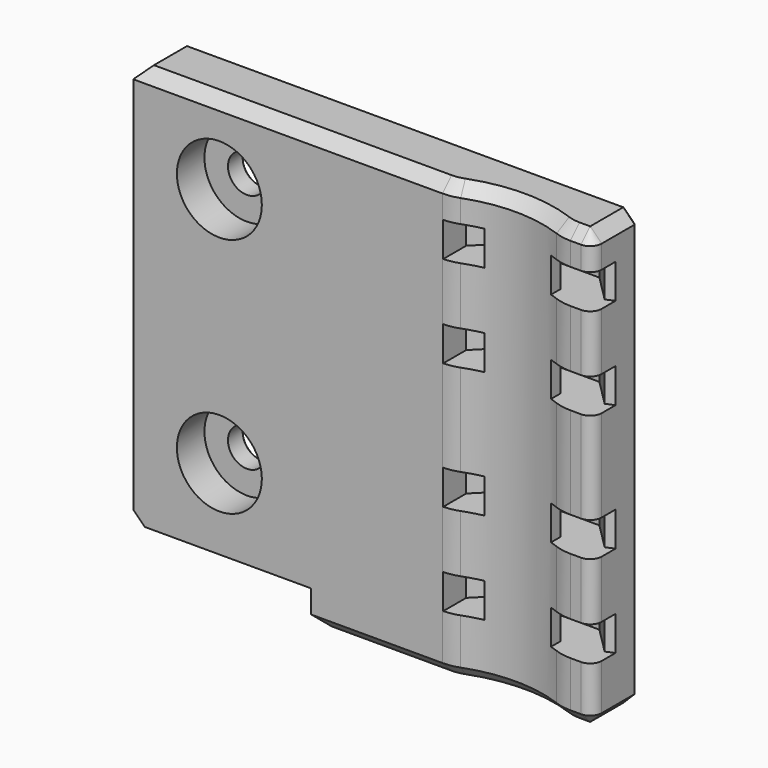
from build123d import *

# Parameters (mm, degrees)
BOX_W              = 40
BOX_H              = 4
BOX_DEPTH          = 38
PAD002_DEPTH       = 3
PAD_DEPTH          = 38
SKETCH001_W        = 15.5
SKETCH001_H        = 3
POCKET_DEPTH       = 7.001
SKETCH002_R        = 12
POCKET001_DEPTH    = 38.001
FILLET_R           = 4
FILLET001_R        = 1
SKETCH003_R        = 1.65
POCKET002_DEPTH    = 7.001
SKETCH004_R        = 3.7
POCKET003_DEPTH    = 3
CHAMFER_SIZE       = 1
CHAMFER001_SIZE    = 1
SKETCH005_W        = 3
SKETCH005_H        = 5
SKETCH005_H_2      = 17
PAD001_DEPTH       = 1
CHAMFER002_SIZE    = 0.99
CHAMFER003_SIZE    = 1
CHAMFER003002_SIZE = 0.4


with BuildPart() as cube:
    # Box → Box (new body)
    with BuildSketch(Plane(origin=(0, 5, 0), x_dir=(1, 0, 0), z_dir=(0, 0, 1))):
        with Locations((20, 2)):
            Rectangle(BOX_W, BOX_H)
    extrude(amount=BOX_DEPTH)


with BuildPart() as body001:
    # Sketch006 → Pad002 (new body)
    with BuildSketch(Plane.XY):
        Polygon((27, -3), (27, 4), (29, 6), (37, 6), (40, 3), (40, -3), (36, -3), (36, 3), (35, 4), (31, 4), (30, 3), (30, -3), align=None)
    extrude(amount=PAD002_DEPTH)


with BuildPart() as body001_1:
    # Body001 placement: moved
    add(body001.part.moved(Location((0, 0, 32))))


with BuildPart() as body002:
    # Body002 base: copy of Body001
    add(body001_1.part)


with BuildPart() as body002_1:
    # Body002 placement: moved
    add(body002.part.moved(Location((0, 0, -8))))


with BuildPart() as body003:
    # Body003 base: copy of Body002
    add(body002_1.part)


with BuildPart() as body003_1:
    # Body003 placement: moved
    add(body003.part.moved(Location((0, 0, -19))))


with BuildPart() as fusion:
    # Body004 base: copy of Body003
    add(body003_1.part)


with BuildPart() as fusion_1:
    # Body004 placement: moved
    add(fusion.part.moved(Location((0, 0, 8))))

    # Fusion: union Body001, Body002, Body003
    add(body001_1.part)
    add(body002_1.part)
    add(body003_1.part)


with BuildPart() as fusion_2:
    # Fusion placement: moved
    add(fusion_1.part.moved(Location((0, -1.5, 0))))


with BuildPart() as chamfer003002:
    # Sketch → Pad (new body)
    with BuildSketch(Plane.XY):
        Polygon((0, 0), (0, 5), (15.5, 5), (15.5, 7), (25, 7), (40, 7), (40, 0), (25, 0), align=None)
    extrude(amount=PAD_DEPTH)

    # Sketch001 (on Face8 of Pad) → Pocket (cut, through all)
    with BuildSketch(Plane.XZ):
        with Locations((7.75, 1.5)):
            Rectangle(SKETCH001_W, SKETCH001_H)
    extrude(amount=-POCKET_DEPTH, mode=Mode.SUBTRACT)

    # Sketch002 (on Face4 of Pocket) → Pocket001 (cut, through all)
    with BuildSketch(Plane.XY.offset(38)):
        with Locations((32.5, -11)):
            Circle(SKETCH002_R)
    extrude(amount=-POCKET001_DEPTH, mode=Mode.SUBTRACT)

    # Fillet
    fillet_edges = [chamfer003002.edges().sort_by_distance(p)[0] for p in [
        (27.704168, 0, 19),
        (37.295832, 0, 19),
    ]]
    fillet(fillet_edges, radius=FILLET_R)

    # Fillet001
    fillet001_edges = [chamfer003002.edges().sort_by_distance(p)[0] for p in [
        (40, 0, 19),
        (40, 7, 19),
    ]]
    fillet(fillet001_edges, radius=FILLET001_R)

    # Sketch003 (on Face12 of Fillet001) → Pocket002 (cut, through all)
    with BuildSketch(Plane.XZ):
        with Locations((7.5, 31)):
            Circle(SKETCH003_R)
        with Locations((7.5, 10)):
            Circle(SKETCH003_R)
    extrude(amount=-POCKET002_DEPTH, mode=Mode.SUBTRACT)

    # Sketch004 (on Face12 of Pocket002) → Pocket003 (cut)
    with BuildSketch(Plane.XZ):
        with Locations((7.5, 31)):
            Circle(SKETCH004_R)
        with Locations((7.5, 10)):
            Circle(SKETCH004_R)
    extrude(amount=-POCKET003_DEPTH, mode=Mode.SUBTRACT)

    # Chamfer
    chamfer_edges = [chamfer003002.edges().sort_by_distance(p)[0] for p in [
        (0, 2.5, 38),
        (0, 2.5, 3),
        (15.5, 2.5, 0),
    ]]
    chamfer(chamfer_edges, length=CHAMFER_SIZE)

    # Chamfer001
    chamfer001_edges = [chamfer003002.edges().sort_by_distance(p)[0] for p in [
        (13, 0, 38),
        (32.5, 1, 0),
    ]]
    chamfer(chamfer001_edges, length=CHAMFER001_SIZE)

    # Sketch005 (on Face4 of Chamfer001) → Pad001 (join)
    with BuildSketch(Plane(origin=(0, 5, 0), x_dir=(-1, 0, 0), z_dir=(0, 1, 0))):
        with Locations((-7.5, 35.5)):
            Rectangle(SKETCH005_W, SKETCH005_H)
        with Locations((-7.5, 20.5)):
            Rectangle(SKETCH005_W, SKETCH005_H_2)
        with Locations((-7.5, 5.5)):
            Rectangle(SKETCH005_W, SKETCH005_H)
    extrude(amount=PAD001_DEPTH)

    # Chamfer002
    chamfer002_edges = [chamfer003002.edges().sort_by_distance(p)[0] for p in [
        (7.5, 6, 29),
        (7.5, 6, 8),
        (7.5, 6, 38),
    ]]
    chamfer(chamfer002_edges, length=CHAMFER002_SIZE)

    # Cut: cut Fusion
    add(fusion_2.part, mode=Mode.SUBTRACT)

    # Cut001: cut Cube
    add(cube.part, mode=Mode.SUBTRACT)

    # Chamfer003
    chamfer003_edges = [chamfer003002.edges().sort_by_distance(p)[0] for p in [
        (40, 1.5, 6.5),
        (40, 1.5, 14.5),
        (40, 1.5, 25.5),
        (40, 1.5, 33.5),
    ]]
    chamfer(chamfer003_edges, length=CHAMFER003_SIZE)

    # Chamfer003002
    chamfer003002_edges = [chamfer003002.edges().sort_by_distance(p)[0] for p in [
        (40, 5, 19),
        (39.5, 5, 0.5),
        (39.5, 5, 37.5),
        (27.75, 5, 0),
        (20, 5, 38),
        (16, 5, 0.5),
        (15.5, 5, 2),
        (0.5, 5, 37.5),
        (8.25, 5, 3),
        (0, 5, 20.5),
        (0.5, 5, 3.5),
        (5.85, 5, 31),
        (5.85, 5, 10),
    ]]
    chamfer(chamfer003002_edges, length=CHAMFER003002_SIZE)


solid = chamfer003002.part
